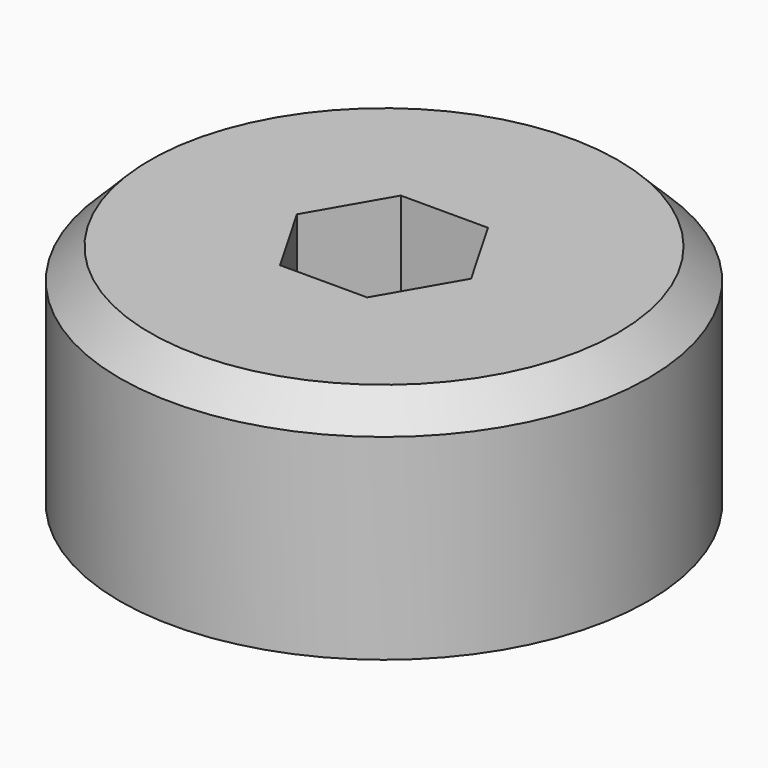
from build123d import *

# Parameters (mm, degrees)
SKETCH_R        = 17.5
PAD_DEPTH       = 15
SKETCH001_R     = 3.25
POCKET_DEPTH    = 15.001
POCKET001_DEPTH = 6
CHAMFER_SIZE    = 2


with BuildPart() as part:
    # Sketch → Pad (new body)
    with BuildSketch(Plane.XY):
        Circle(SKETCH_R)
    extrude(amount=PAD_DEPTH)

    # Sketch001 (on Face3 of Pad) → Pocket (cut, through all)
    with BuildSketch(Plane.XY.offset(15)):
        Circle(SKETCH001_R)
    extrude(amount=-POCKET_DEPTH, mode=Mode.SUBTRACT)

    # Sketch002 (on Face3 of Pocket) → Pocket001 (cut)
    with BuildSketch(Plane.XY.offset(15)):
        Polygon((2.886751, 5), (-2.886751, 5), (-5.773503, 0), (-2.886751, -5), (2.886751, -5), (5.773503, 0), align=None)
    extrude(amount=-POCKET001_DEPTH, mode=Mode.SUBTRACT)

    # Chamfer
    chamfer_edges = [part.edges().sort_by_distance(p)[0] for p in [
        (-17.5, 0, 15),
    ]]
    chamfer(chamfer_edges, length=CHAMFER_SIZE)


solid = part.part
